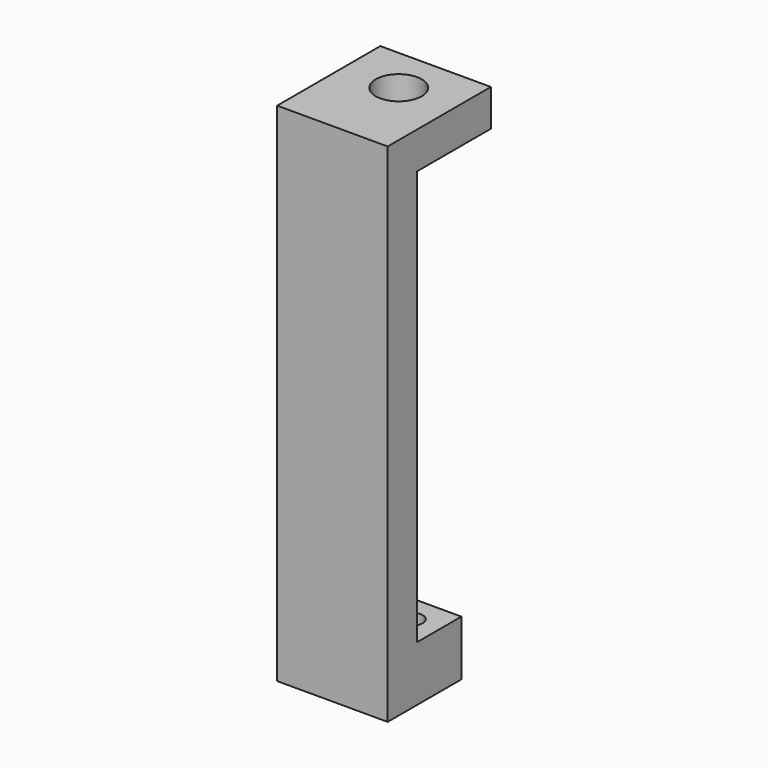
from build123d import *

# Parameters (mm, degrees)
SKETCH_W     = 12
SKETCH_H     = 10
SKETCH_R     = 1.2
PAD_DEPTH    = 6
SKETCH001_W  = 12
SKETCH001_H  = 4
PAD001_DEPTH = 45
SKETCH002_W  = 12
SKETCH002_H  = 14
PAD002_DEPTH = 4
SKETCH005_R  = 2.5
POCKET_DEPTH = 5


with BuildPart() as part:
    # Sketch → Pad (new body)
    with BuildSketch(Plane.XY):
        with Locations((-6, 5)):
            Rectangle(SKETCH_W, SKETCH_H)
        with Locations((-9, 7)):
            Circle(SKETCH_R, mode=Mode.SUBTRACT)
        with Locations((-3, 7)):
            Circle(SKETCH_R, mode=Mode.SUBTRACT)
    extrude(amount=PAD_DEPTH)

    # Sketch001 (on Face8 of Pad) → Pad001 (join)
    with BuildSketch(Plane.XY.offset(6)):
        with Locations((-6, 2)):
            Rectangle(SKETCH001_W, SKETCH001_H)
    extrude(amount=PAD001_DEPTH)

    # Sketch002 (on Face13 of Pad001) → Pad002 (join)
    with BuildSketch(Plane.XY.offset(51)):
        with Locations((-6, 7)):
            Rectangle(SKETCH002_W, SKETCH002_H)
    extrude(amount=PAD002_DEPTH)

    # Sketch005 (on Face18 of Pad002) → Pocket (cut)
    with BuildSketch(Plane.XY.offset(55)):
        with Locations((-6, 9)):
            Circle(SKETCH005_R)
    extrude(amount=-POCKET_DEPTH, mode=Mode.SUBTRACT)


solid = part.part
